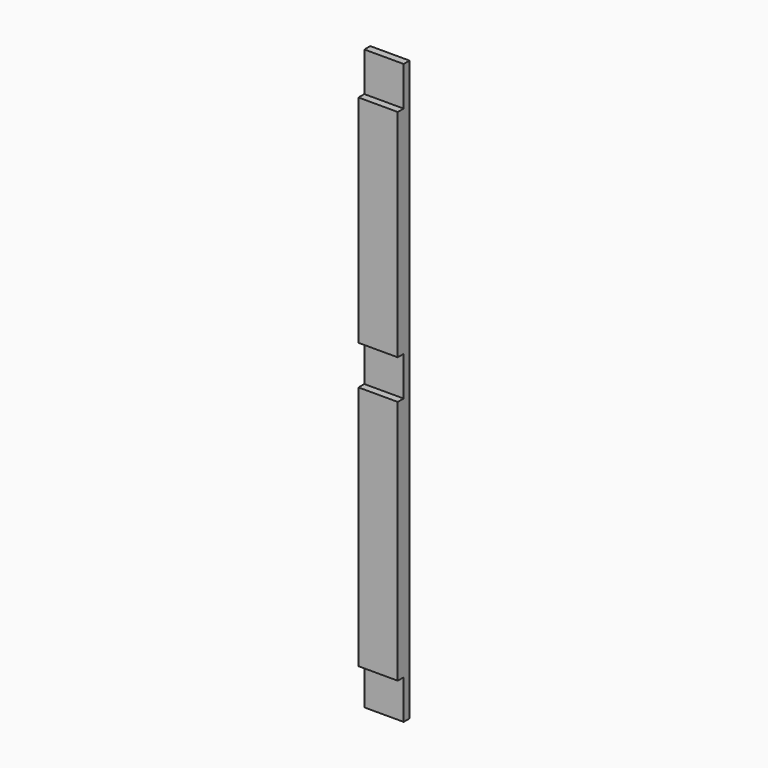
from build123d import *

# Parameters (mm, degrees)
F0_W     = 50.8
F0_H     = 19.05
F1_DEPTH = 749.3
F2_W     = 122.435573
F2_H     = 50.8
F2_W_2   = 93.867282
F2_W_3   = 343.160421
F3_DEPTH = 25.4


with BuildPart() as f1:
    # F0 (on Top) → F1 (new body)
    with BuildSketch(Plane.XY):
        Rectangle(F0_W, F0_H)
    extrude(amount=F1_DEPTH)

    # F2 (on Front) → F3 (cut)
    with BuildSketch(Plane.XZ):
        with Locations((22.446524, 25.4)):
            Rectangle(F2_W, F2_H)
        with Locations((2.720783, 393.7)):
            Rectangle(F2_W_2, F2_H)
        with Locations((-38.781822, 723.9)):
            Rectangle(F2_W_3, F2_H)
    extrude(amount=F3_DEPTH, mode=Mode.SUBTRACT)


solid = f1.part
